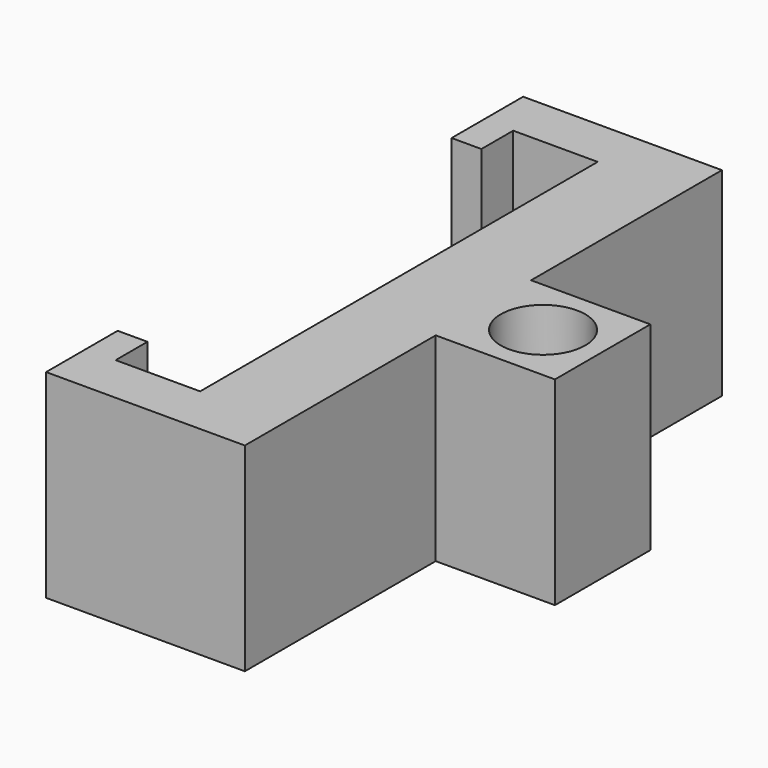
from build123d import *

# Parameters (mm, degrees)
F1_DEPTH = 20
F2_R     = 4.25
F3_DEPTH = 10


with BuildPart() as f1:
    # F0 (on Top) → F1 (new body)
    with BuildSketch(Plane.XY):
        Polygon((3.257158, 63.029949), (0.257158, 63.029949), (0.257158, 54.029949), (3.257158, 54.029949), (3.257158, 58.029949), (11.757158, 58.029949), (11.757158, 8.029949), (3.257158, 8.029949), (3.257158, 12.029949), (0.257158, 12.029949), (0.257158, 3.029949), (3.257158, 3.029949), (20.257158, 3.029949), (20.257158, 27.029949), (32.257158, 27.029949), (32.257158, 39.029949), (20.257158, 39.029949), (20.257158, 63.029949), align=None)
    extrude(amount=F1_DEPTH)

    # F2 (on face) → F3 (cut)
    with BuildSketch(Plane.XY.offset(20)):
        with Locations((26.257158, 33.029949)):
            Circle(F2_R)
    extrude(amount=-F3_DEPTH, mode=Mode.SUBTRACT)


solid = f1.part
